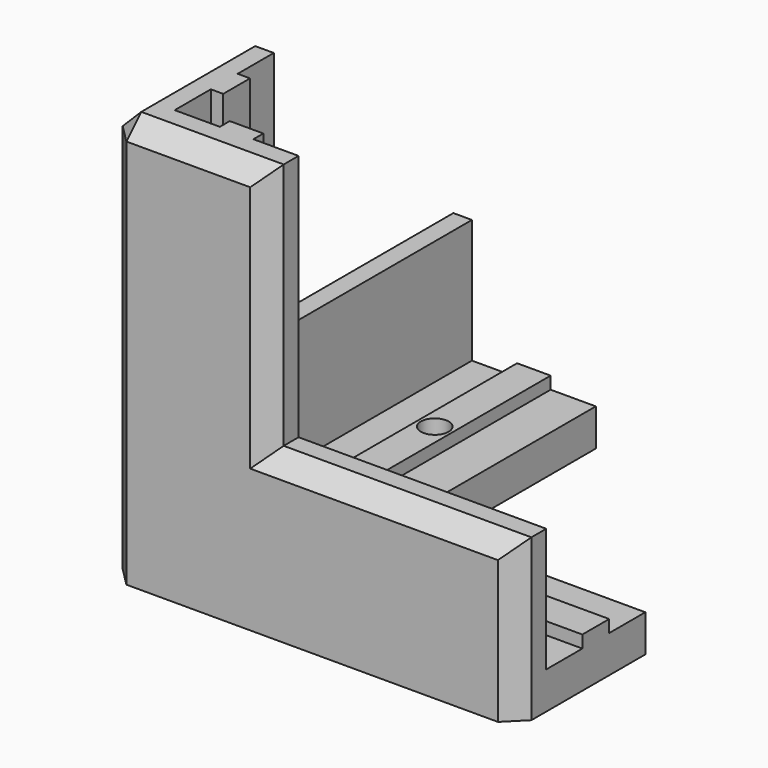
from build123d import *

# Parameters (mm, degrees)
F1_DEPTH  = 6
F3_DEPTH  = 20
F5_DEPTH  = 40
F7_DEPTH  = 60
F9_DEPTH  = 2
F12_R     = 3.25
F12_R_2   = 2.25
F13_DEPTH = 8.001
F14_SIZE  = 3


with BuildPart() as f1:
    # F0 (on Top) → F1 (new body)
    with BuildSketch(Plane.XY):
        Polygon((0, 66), (0, 0), (66, 0), (66, 26), (26, 26), (26, 66), align=None)
    extrude(amount=F1_DEPTH)

    # F2 (on face) → F3 (join)
    with BuildSketch(Plane.XY.offset(6)):
        Polygon((6, 66), (0, 66), (0, 0), (66, 0), (66, 6), (6, 6), align=None)
    extrude(amount=F3_DEPTH)

    # F4 (on face) → F5 (join)
    with BuildSketch(Plane.XY.offset(26)):
        Polygon((6, 6), (6, 26), (0, 26), (0, 0), (26, 0), (26, 6), align=None)
    extrude(amount=F5_DEPTH)

    # F6 (on face) → F7 (join)
    with BuildSketch(Plane.XY.offset(6)):
        Polygon((13.29, 6), (16, 6), (18.71, 6), (18.71, 8), (13.29, 8), align=None)
        Polygon((6, 18.71), (6, 16), (6, 13.29), (8, 13.29), (8, 18.71), align=None)
    extrude(amount=F7_DEPTH)

    # F8 (on face) → F9 (join)
    with BuildSketch(Plane.XY.offset(6)):
        Polygon((66, 13.29), (66, 16), (66, 18.71), (26, 18.71), (26, 13.29), align=None)
        Polygon((18.71, 66), (16, 66), (13.29, 66), (13.29, 26), (18.71, 26), align=None)
    extrude(amount=F9_DEPTH)

    # F12 (on face) → F13 (cut, through all)
    with BuildSketch(Plane(origin=(0, 0, 0), x_dir=(1, 0, 0), z_dir=(0, 0, -1))):
        with Locations((16, -16)):
            Circle(F12_R)
        with Locations((46, -16)):
            Circle(F12_R_2)
        with Locations((16, -46)):
            Circle(F12_R_2)
    extrude(amount=-F13_DEPTH, mode=Mode.SUBTRACT)

    # F14
    f14_edges = [f1.edges().sort_by_distance(p)[0] for p in [
        (0, 0, 33),
        (0, 26, 46),
        (0, 46, 26),
        (26, 0, 46),
        (46, 0, 26),
        (0, 13, 66),
        (13, 0, 66),
        (0, 66, 13),
        (66, 0, 13),
    ]]
    chamfer(f14_edges, length=F14_SIZE)


solid = f1.part
